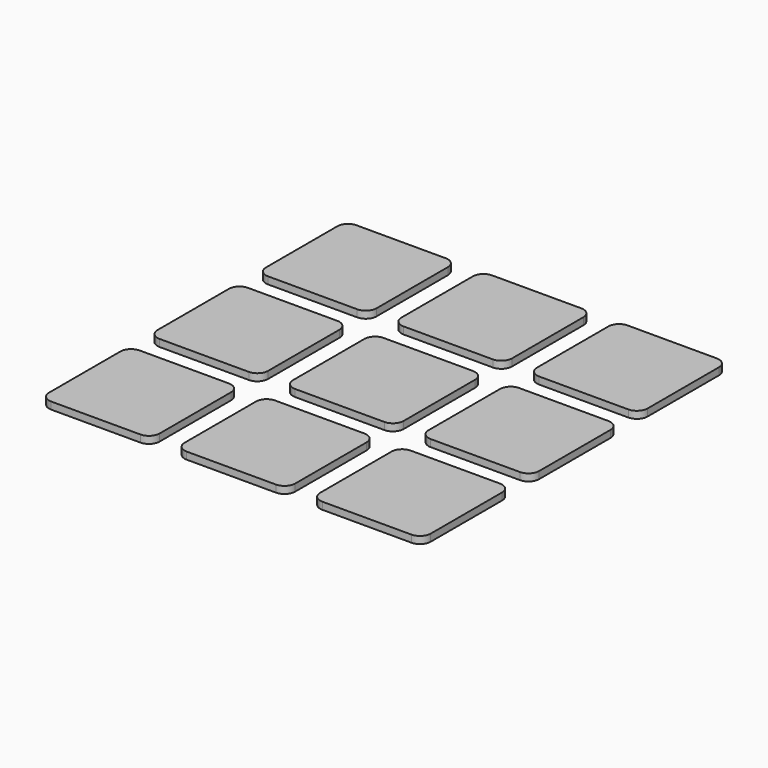
from build123d import *

# Parameters (mm, degrees)
F1_DEPTH = 1


with BuildPart() as f1:
    # F0 (on Top) → F1 (new body)
    with BuildSketch(Plane.XY):
        with BuildLine():
            Line((-12.75, -11.25), (-25.25, -11.25))
            ThreePointArc((-25.25, -11.25), (-26.31066, -11.68934), (-26.75, -12.75))
            Line((-26.75, -12.75), (-26.75, -25.25))
            ThreePointArc((-26.75, -25.25), (-26.31066, -26.31066), (-25.25, -26.75))
            Line((-25.25, -26.75), (-12.75, -26.75))
            ThreePointArc((-12.75, -26.75), (-11.68934, -26.31066), (-11.25, -25.25))
            Line((-11.25, -25.25), (-11.25, -12.75))
            ThreePointArc((-11.25, -12.75), (-11.68934, -11.68934), (-12.75, -11.25))
        make_face()
        with BuildLine():
            Line((6.25, -11.25), (-6.25, -11.25))
            ThreePointArc((-6.25, -11.25), (-7.31066, -11.68934), (-7.75, -12.75))
            Line((-7.75, -12.75), (-7.75, -25.25))
            ThreePointArc((-7.75, -25.25), (-7.31066, -26.31066), (-6.25, -26.75))
            Line((-6.25, -26.75), (6.25, -26.75))
            ThreePointArc((6.25, -26.75), (7.31066, -26.31066), (7.75, -25.25))
            Line((7.75, -25.25), (7.75, -12.75))
            ThreePointArc((7.75, -12.75), (7.31066, -11.68934), (6.25, -11.25))
        make_face()
        with BuildLine():
            Line((6.25, 7.75), (-6.25, 7.75))
            ThreePointArc((-6.25, 7.75), (-7.31066, 7.31066), (-7.75, 6.25))
            Line((-7.75, 6.25), (-7.75, -6.25))
            ThreePointArc((-7.75, -6.25), (-7.31066, -7.31066), (-6.25, -7.75))
            Line((-6.25, -7.75), (6.25, -7.75))
            ThreePointArc((6.25, -7.75), (7.31066, -7.31066), (7.75, -6.25))
            Line((7.75, -6.25), (7.75, 6.25))
            ThreePointArc((7.75, 6.25), (7.31066, 7.31066), (6.25, 7.75))
        make_face()
        with BuildLine():
            ThreePointArc((25.25, -26.75), (26.31066, -26.31066), (26.75, -25.25))
            Line((26.75, -25.25), (26.75, -12.75))
            ThreePointArc((26.75, -12.75), (26.31066, -11.68934), (25.25, -11.25))
            Line((25.25, -11.25), (12.75, -11.25))
            ThreePointArc((12.75, -11.25), (11.68934, -11.68934), (11.25, -12.75))
            Line((11.25, -12.75), (11.25, -25.25))
            ThreePointArc((11.25, -25.25), (11.68934, -26.31066), (12.75, -26.75))
            Line((12.75, -26.75), (25.25, -26.75))
        make_face()
        with BuildLine():
            Line((25.25, 7.75), (12.75, 7.75))
            ThreePointArc((12.75, 7.75), (11.68934, 7.31066), (11.25, 6.25))
            Line((11.25, 6.25), (11.25, -6.25))
            ThreePointArc((11.25, -6.25), (11.68934, -7.31066), (12.75, -7.75))
            Line((12.75, -7.75), (25.25, -7.75))
            ThreePointArc((25.25, -7.75), (26.31066, -7.31066), (26.75, -6.25))
            Line((26.75, -6.25), (26.75, 6.25))
            ThreePointArc((26.75, 6.25), (26.31066, 7.31066), (25.25, 7.75))
        make_face()
        with BuildLine():
            ThreePointArc((26.75, 25.25), (26.31066, 26.31066), (25.25, 26.75))
            Line((25.25, 26.75), (12.75, 26.75))
            ThreePointArc((12.75, 26.75), (11.68934, 26.31066), (11.25, 25.25))
            Line((11.25, 25.25), (11.25, 12.75))
            ThreePointArc((11.25, 12.75), (11.68934, 11.68934), (12.75, 11.25))
            Line((12.75, 11.25), (25.25, 11.25))
            ThreePointArc((25.25, 11.25), (26.31066, 11.68934), (26.75, 12.75))
            Line((26.75, 12.75), (26.75, 25.25))
        make_face()
        with BuildLine():
            Line((-7.75, 25.25), (-7.75, 12.75))
            ThreePointArc((-7.75, 12.75), (-7.31066, 11.68934), (-6.25, 11.25))
            Line((-6.25, 11.25), (6.25, 11.25))
            ThreePointArc((6.25, 11.25), (7.31066, 11.68934), (7.75, 12.75))
            Line((7.75, 12.75), (7.75, 25.25))
            ThreePointArc((7.75, 25.25), (7.31066, 26.31066), (6.25, 26.75))
            Line((6.25, 26.75), (-6.25, 26.75))
            ThreePointArc((-6.25, 26.75), (-7.31066, 26.31066), (-7.75, 25.25))
        make_face()
        with BuildLine():
            ThreePointArc((-25.25, 26.75), (-26.31066, 26.31066), (-26.75, 25.25))
            Line((-26.75, 25.25), (-26.75, 12.75))
            ThreePointArc((-26.75, 12.75), (-26.31066, 11.68934), (-25.25, 11.25))
            Line((-25.25, 11.25), (-12.75, 11.25))
            ThreePointArc((-12.75, 11.25), (-11.68934, 11.68934), (-11.25, 12.75))
            Line((-11.25, 12.75), (-11.25, 25.25))
            ThreePointArc((-11.25, 25.25), (-11.68934, 26.31066), (-12.75, 26.75))
            Line((-12.75, 26.75), (-25.25, 26.75))
        make_face()
        with BuildLine():
            Line((-25.25, -7.75), (-12.75, -7.75))
            ThreePointArc((-12.75, -7.75), (-11.68934, -7.31066), (-11.25, -6.25))
            Line((-11.25, -6.25), (-11.25, 6.25))
            ThreePointArc((-11.25, 6.25), (-11.68934, 7.31066), (-12.75, 7.75))
            Line((-12.75, 7.75), (-25.25, 7.75))
            ThreePointArc((-25.25, 7.75), (-26.31066, 7.31066), (-26.75, 6.25))
            Line((-26.75, 6.25), (-26.75, -6.25))
            ThreePointArc((-26.75, -6.25), (-26.31066, -7.31066), (-25.25, -7.75))
        make_face()
    extrude(amount=F1_DEPTH)


solid = f1.part
